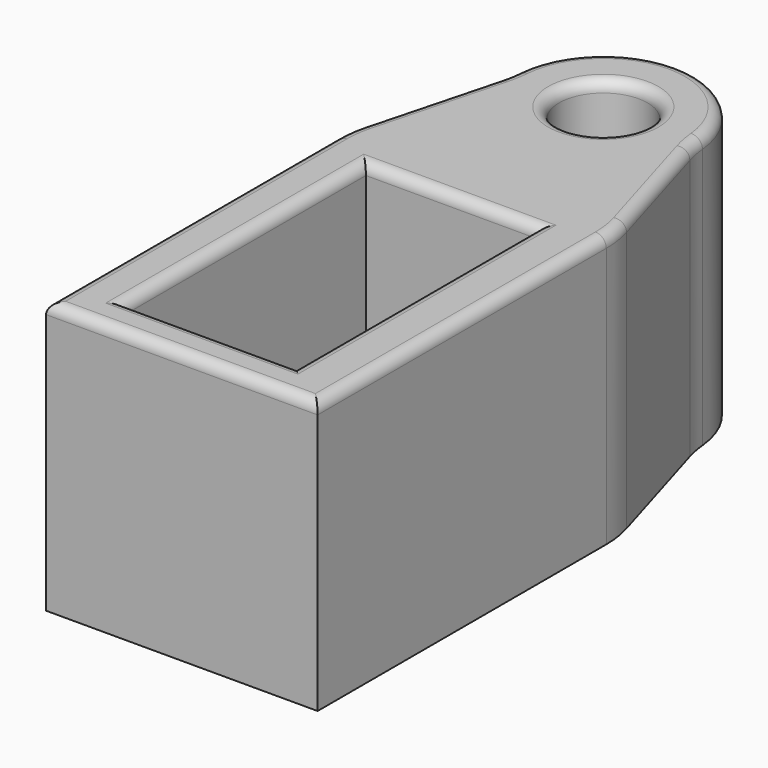
from build123d import *

# Parameters (mm, degrees)
F0_W     = 25
F0_H     = 34.675
F0_W_2   = 15.7
F0_H_2   = 27.7
F0_R     = 4.075
F1_DEPTH = 25
F2_R     = 10
F3_R     = 1


with BuildPart() as f1:
    # F0 (on Top) → F1 (new body)
    with BuildSketch(Plane.XY):
        with Locations((0.225, -0.0875)):
            Rectangle(F0_W, F0_H)
        Rectangle(F0_W_2, F0_H_2, mode=Mode.SUBTRACT)
        with BuildLine():
            Line((-12.275, 17.25), (12.725, 17.25))
            Line((12.725, 17.25), (8.530193, 31.366524))
            ThreePointArc((8.530193, 31.366524), (0, 22.836331), (-8.530193, 31.366524))
            Line((-8.530193, 31.366524), (-12.275, 17.25))
        make_face()
        with BuildLine():
            ThreePointArc((-8.530193, 31.366524), (0, 22.836331), (8.530193, 31.366524))
            ThreePointArc((8.530193, 31.366524), (0, 39.896717), (-8.530193, 31.366524))
        make_face()
        with Locations((0, 31.366524)):
            Circle(F0_R, mode=Mode.SUBTRACT)
    extrude(amount=F1_DEPTH)

    # F2
    f2_edges = [f1.edges().sort_by_distance(p)[0] for p in [
        (12.725, 17.25, 12.5),
        (8.530193, 31.366524, 12.5),
        (-8.530193, 31.366524, 12.5),
        (-12.275, 17.25, 12.5),
    ]]
    fillet(f2_edges, radius=F2_R)

    # F3
    f3_edges = [f1.edges().sort_by_distance(p)[0] for p in [
        (12.725, -0.814676, 25),
        (12.620892, 17.234859, 25),
        (0.225, -17.425, 25),
        (10.587354, 24.443688, 25),
        (-12.275, -0.739421, 25),
        (8.631638, 31.192913, 25),
        (-12.191068, 17.239057, 25),
        (-0.040943, 39.896618, 25),
        (-10.370209, 24.430349, 25),
        (-8.612072, 31.208214, 25),
        (7.85, 0, 25),
        (0, -13.85, 25),
        (-7.85, 0, 25),
        (0, 13.85, 25),
        (-4.075, 31.366524, 25),
    ]]
    fillet(f3_edges, radius=F3_R)


solid = f1.part
